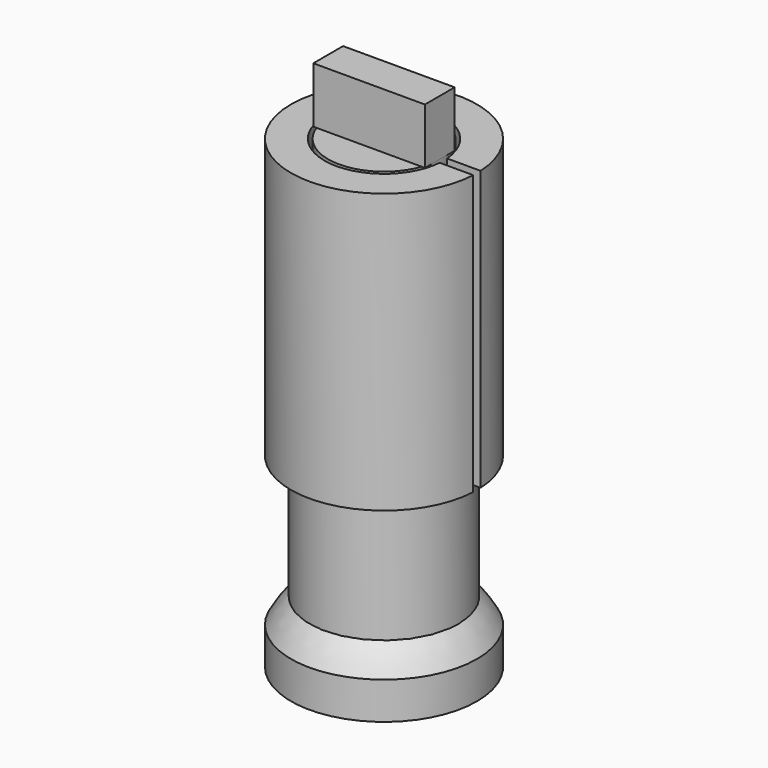
from build123d import *

# Parameters (mm, degrees)
SKETCH002_R            = 1.4
EXTRUDE001_DEPTH       = 5
SKETCH_R               = 4
SKETCH_R_2             = 1.5
EXTRUDE_DEPTH          = 15
SKETCH003_W            = 0.6
SKETCH003_H            = 1.2
CYLINDER_R             = 3
CYLINDER_DEPTH         = 10
SKETCH004_W            = 2
SKETCH004_H            = 3
EXTRUDE005_DEPTH       = 6
FUSION_PLACEMENT_ANGLE = 180
SKETCH008_R            = 4
EXTRUDE010_DEPTH       = 5
SKETCH007_W            = 0.5
SKETCH007_H            = 16.780187
EXTRUDE008_DEPTH       = 10
SKETCH006_W            = 0.4
SKETCH006_H            = 0.8
SKETCH005_R            = 5
SKETCH005_R_2          = 3.2
EXTRUDE007_DEPTH       = 15


with BuildPart() as obj1:
    # Sketch001 → Revolve (revolve)
    with BuildSketch(Plane.XZ):
        with BuildLine():
            Line((0, 0), (5, 0))
            Line((5, 0), (5, 2))
            ThreePointArc((5, 2), (2.915476, 4.19246), (0, 5))
            Line((0, 0), (0, 5))
        make_face()
    revolve(axis=Axis((0, 0, 0), (0, 0, 1)))


with BuildPart() as extrude001:
    # Sketch002 → Extrude001 (new body)
    with BuildSketch(Plane.YZ.offset(-5)):
        with Locations((0, 5)):
            Circle(SKETCH002_R)
    extrude(amount=EXTRUDE001_DEPTH)


with BuildPart() as cut:
    # Sketch → Extrude (new body)
    with BuildSketch(Plane.XY):
        Circle(SKETCH_R)
        Circle(SKETCH_R_2, mode=Mode.SUBTRACT)
    extrude(amount=EXTRUDE_DEPTH)

    # Cut: cut Extrude001
    add(extrude001.part, mode=Mode.SUBTRACT)


with BuildPart() as revolve001:
    # Sketch003 → Revolve001 (revolve)
    with BuildSketch(Plane(origin=(-3, 0, 0), x_dir=(1, 0, 0), z_dir=(0, -1, 0))):
        with Locations((0.3, 3.9)):
            Rectangle(SKETCH003_W, SKETCH003_H)
    revolve(axis=Axis((0, 0, 0), (0, 0, 1)))


with BuildPart() as cut001:
    # Cylinder → Cylinder (new body)
    with BuildSketch(Plane.XY):
        Circle(CYLINDER_R)
    extrude(amount=CYLINDER_DEPTH)

    # Cut001: cut Revolve001
    add(revolve001.part, mode=Mode.SUBTRACT)


with BuildPart() as laser001:
    # Sketch004 → Extrude005 (new body)
    with BuildSketch(Plane.YZ.offset(3)):
        with Locations((0, -1.5)):
            Rectangle(SKETCH004_W, SKETCH004_H)
    extrude(amount=-EXTRUDE005_DEPTH)

    # Fusion: union Cut001
    add(cut001.part)


with BuildPart() as laser001_1:
    # Fusion placement: moved
    add(laser001.part.moved(Location((0, 0, 25))).rotate(Axis((0, 0, 25), (1, 0, 0)), FUSION_PLACEMENT_ANGLE))


with BuildPart() as extrude010:
    # Sketch008 → Extrude010 (new body)
    with BuildSketch(Plane.XY.offset(10)):
        Circle(SKETCH008_R)
    extrude(amount=EXTRUDE010_DEPTH)


with BuildPart() as extrude008:
    # Sketch007 → Extrude008 (new body)
    with BuildSketch(Plane.YZ):
        with Locations((0, 16.945946)):
            Rectangle(SKETCH007_W, SKETCH007_H)
    extrude(amount=EXTRUDE008_DEPTH)


with BuildPart() as revolve002:
    # Sketch006 → Revolve002 (revolve)
    with BuildSketch(Plane.XZ):
        with Locations((3.19884, 21.127851)):
            Rectangle(SKETCH006_W, SKETCH006_H)
    revolve(axis=Axis((0, 0, 0), (0, 0, 1)))


with BuildPart() as cut003:
    # Sketch005 → Extrude007 (new body)
    with BuildSketch(Plane.XY.offset(15)):
        Circle(SKETCH005_R)
        Circle(SKETCH005_R_2, mode=Mode.SUBTRACT)
    extrude(amount=EXTRUDE007_DEPTH)


with BuildPart() as cut003_1:
    # Extrude007 placement: moved
    add(cut003.part.moved(Location((0, 0, -5))))

    # Fusion001: union Revolve002
    add(revolve002.part)

    # Cut002: cut Extrude008
    add(extrude008.part, mode=Mode.SUBTRACT)

    # Cut003: cut Extrude010
    add(extrude010.part, mode=Mode.SUBTRACT)


solid = Compound([obj1.part, cut.part, laser001_1.part, cut003_1.part])
